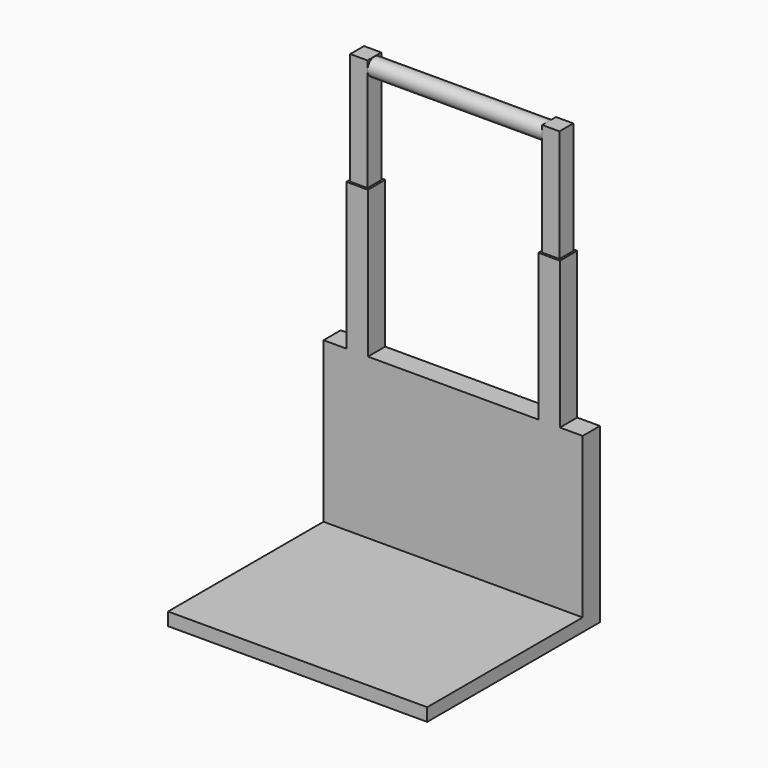
from build123d import *

# Parameters (mm, degrees)
F0_W     = 50
F0_H     = 370
F1_DEPTH = 600
F2_W     = 50
F2_H     = 50
F2_W_2   = 40
F2_H_2   = 40
F3_DEPTH = 340
F4_DEPTH = 340
F5_DEPTH = 600
F6_DEPTH = 600
F7_R     = 20
F8_DEPTH = 410


with BuildPart() as f1:
    # F0 (on Right) → F1 (new body)
    with BuildSketch(Plane.YZ):
        with Locations((471.6733521096, 198.7442690134)):
            Rectangle(F0_W, F0_H)
        Polygon((446.6733521096, 13.7442690134), (-3.3266478904, 13.7442690134), (-3.3266478904, -16.2557309866), (496.6733521096, -16.2557309866), (496.6733521096, 13.7442690134), align=None)
    extrude(amount=-F1_DEPTH)

    # F2 (on face) → F3 (join)
    with BuildSketch(Plane.XY.offset(383.7442690134)):
        with Locations((-522.2534894943, 471.6733521096)):
            Rectangle(F2_W, F2_H)
        with Locations((-522.2534894943, 471.6733521096)):
            Rectangle(F2_W_2, F2_H_2, mode=Mode.SUBTRACT)
    extrude(amount=F3_DEPTH)

    # F2 (on face) → F4 (join)
    with BuildSketch(Plane.XY.offset(383.7442690134)):
        with Locations((-77.7465105057, 471.6733521096)):
            Rectangle(F2_W, F2_H)
        with Locations((-77.7465105057, 471.6733521096)):
            Rectangle(F2_W_2, F2_H_2, mode=Mode.SUBTRACT)
    extrude(amount=F4_DEPTH)

    # F2 (on face) → F6 (join)
    with BuildSketch(Plane.XY.offset(383.7442690134)):
        with Locations((-77.7465105057, 471.6733521096)):
            Rectangle(F2_W_2, F2_H_2)
    extrude(amount=F6_DEPTH)


with BuildPart() as f5:
    # F2 (on face) → F5 (new body)
    with BuildSketch(Plane.XY.offset(383.7442690134)):
        with Locations((-522.2534894943, 471.6733521096)):
            Rectangle(F2_W_2, F2_H_2)
    extrude(amount=F5_DEPTH)

    # F7 (on face) → F8 (join)
    with BuildSketch(Plane.YZ.offset(-502.2534894943)):
        with Locations((471.6733521096, 963.7442690134)):
            Circle(F7_R)
    extrude(amount=F8_DEPTH)


solid = Compound([f1.part, f5.part])
